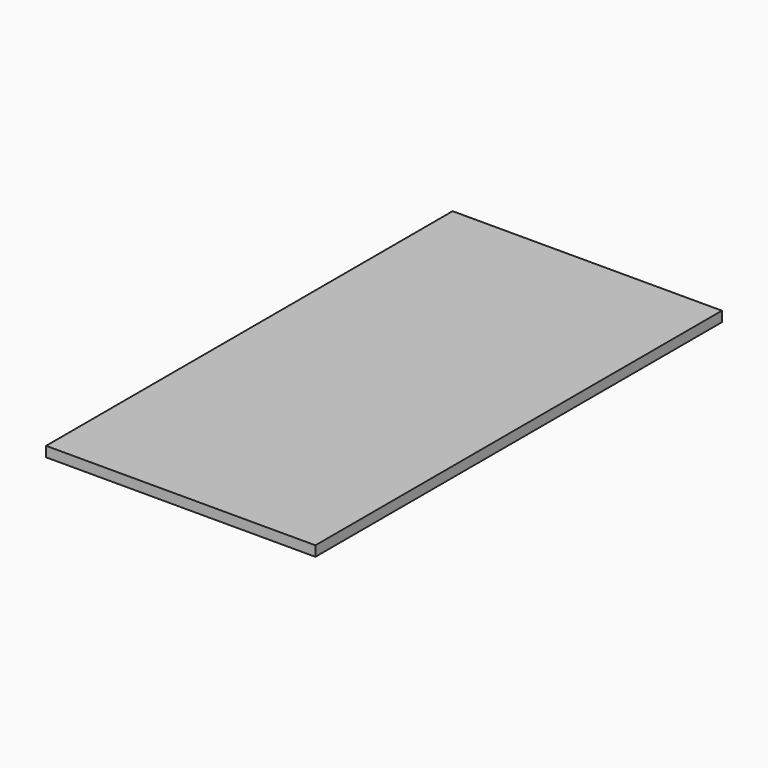
from build123d import *

# Parameters (mm, degrees)
PAD_DEPTH = 10


with BuildPart() as part:
    # Sketch → Pad (new body)
    with BuildSketch(Plane.XY):
        Polygon((0, 500), (265, 500), (265, 0), (0, 0), (0, 250), align=None)
    extrude(amount=PAD_DEPTH)


solid = part.part
